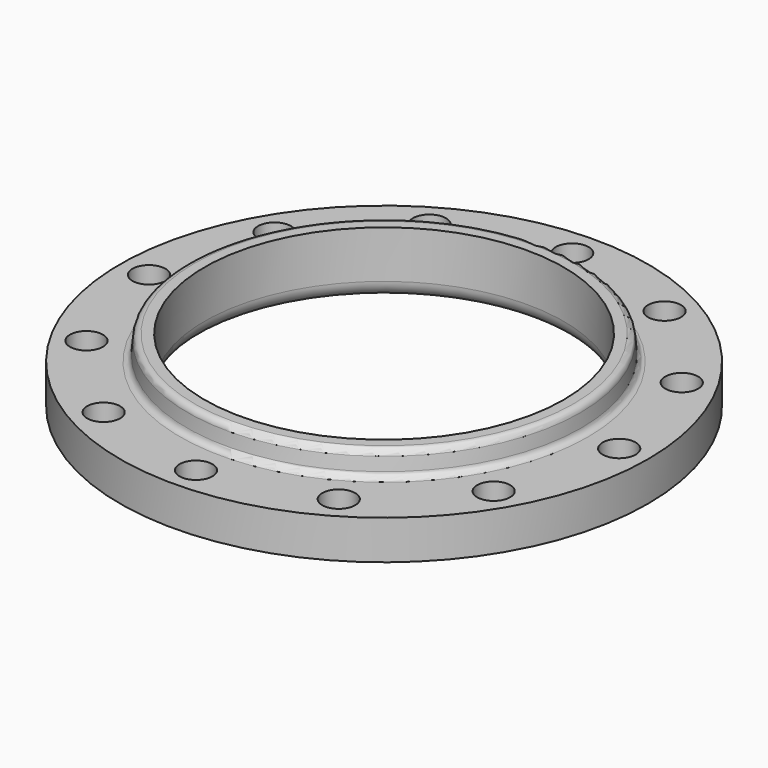
from build123d import *

# Parameters (mm, degrees)
F2_R     = 12.7
F3_DEPTH = 30.201


with BuildPart() as f1:
    # F0 (on Front) → F1 (revolve)
    with BuildSketch(Plane.XZ):
        with BuildLine():
            ThreePointArc((138.25, 12.7), (141.969744, 3.719744), (150.95, 0))
            Line((150.95, 0), (203.2, 0))
            Line((203.2, 0), (203.2, 30.2))
            Line((203.2, 30.2), (156.981656, 30.2))
            ThreePointArc((156.981656, 30.2), (153.603705, 31.513613), (152.000682, 34.764221))
            Line((152.000682, 34.764221), (151.128284, 44.735779))
            ThreePointArc((151.128284, 44.735779), (149.525262, 47.986387), (146.147311, 49.3))
            Line((146.147311, 49.3), (138.25, 49.3))
            Line((138.25, 49.3), (138.25, 12.7))
        make_face()
    revolve(axis=Axis((0, 0, 24.65), (0, 0, 1)))

    # F2 (on face) → F3 (cut, through all)
    with BuildSketch(Plane.XY.offset(30.2)):
        with Locations((0, 181)):
            Circle(F2_R)
        with Locations((-90.5, 156.750598)):
            Circle(F2_R)
        with Locations((-156.750598, 90.5)):
            Circle(F2_R)
        with Locations((-181, 0)):
            Circle(F2_R)
        with Locations((-156.750598, -90.5)):
            Circle(F2_R)
        with Locations((-90.5, -156.750598)):
            Circle(F2_R)
        with Locations((0, -181)):
            Circle(F2_R)
        with Locations((90.5, -156.750598)):
            Circle(F2_R)
        with Locations((156.750598, -90.5)):
            Circle(F2_R)
        with Locations((181, 0)):
            Circle(F2_R)
        with Locations((156.750598, 90.5)):
            Circle(F2_R)
        with Locations((90.5, 156.750598)):
            Circle(F2_R)
    extrude(amount=-F3_DEPTH, mode=Mode.SUBTRACT)


solid = f1.part
